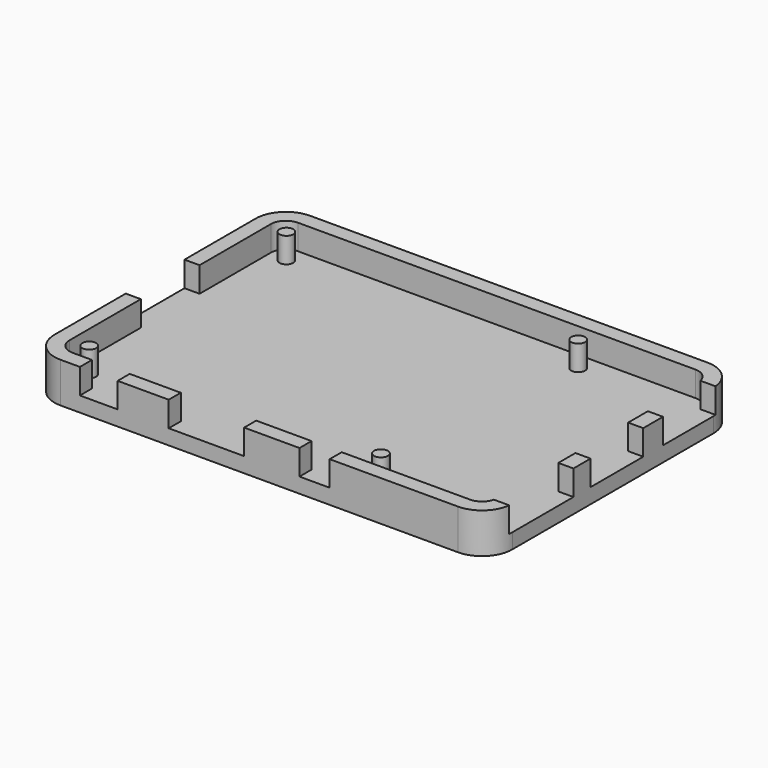
from build123d import *

# Parameters (mm, degrees)
F1_DEPTH  = 8
F0_R      = 3.1
F0_R_2    = 1.375
F2_DEPTH  = 3
F3_DEPTH  = 8
F4_W      = 7.5
F4_H      = 5
F5_DEPTH  = 3
F4_W_2    = 15
F4_W_3    = 6
F6_DEPTH  = 3
F7_W      = 15.9
F7_H      = 5
F7_W_2    = 13.1
F8_DEPTH  = 3
F9_W      = 14.6
F9_H      = 5
F10_DEPTH = 3
F11_DEPTH = 10


with BuildPart() as f1:
    # F0 (on Top) → F1 (new body)
    with BuildSketch(Plane.XY):
        with BuildLine():
            Line((82, 59), (3, 59))
            ThreePointArc((3, 59), (-1.242641, 57.242641), (-3, 53))
            Line((-3, 53), (-3, 3))
            ThreePointArc((-3, 3), (-1.242641, -1.242641), (3, -3))
            Line((3, -3), (82, -3))
            ThreePointArc((82, -3), (86.242641, -1.242641), (88, 3))
            Line((88, 3), (88, 53))
            ThreePointArc((88, 53), (86.242641, 57.242641), (82, 59))
        make_face()
        with BuildLine():
            Line((82, 0), (3, 0))
            ThreePointArc((3, 0), (0.87868, 0.87868), (0, 3))
            Line((0, 3), (0, 53))
            ThreePointArc((0, 53), (0.87868, 55.12132), (3, 56))
            Line((3, 56), (82, 56))
            ThreePointArc((82, 56), (84.12132, 55.12132), (85, 53))
            Line((85, 53), (85, 3))
            ThreePointArc((85, 3), (84.12132, 0.87868), (82, 0))
        make_face(mode=Mode.SUBTRACT)
    extrude(amount=F1_DEPTH)

    # F0 (on Top) → F2 (join)
    with BuildSketch(Plane.XY):
        with BuildLine():
            Line((82, 59), (3, 59))
            ThreePointArc((3, 59), (-1.242641, 57.242641), (-3, 53))
            Line((-3, 53), (-3, 3))
            ThreePointArc((-3, 3), (-1.242641, -1.242641), (3, -3))
            Line((3, -3), (82, -3))
            ThreePointArc((82, -3), (86.242641, -1.242641), (88, 3))
            Line((88, 3), (88, 53))
            ThreePointArc((88, 53), (86.242641, 57.242641), (82, 59))
        make_face()
        with BuildLine():
            Line((82, 0), (3, 0))
            ThreePointArc((3, 0), (0.87868, 0.87868), (0, 3))
            Line((0, 3), (0, 53))
            ThreePointArc((0, 53), (0.87868, 55.12132), (3, 56))
            Line((3, 56), (82, 56))
            ThreePointArc((82, 56), (84.12132, 55.12132), (85, 53))
            Line((85, 53), (85, 3))
            ThreePointArc((85, 3), (84.12132, 0.87868), (82, 0))
        make_face(mode=Mode.SUBTRACT)
        with BuildLine():
            ThreePointArc((0, 3), (0.87868, 0.87868), (3, 0))
            Line((3, 0), (82, 0))
            ThreePointArc((82, 0), (84.12132, 0.87868), (85, 3))
            Line((85, 3), (85, 53))
            ThreePointArc((85, 53), (84.12132, 55.12132), (82, 56))
            Line((82, 56), (3, 56))
            ThreePointArc((3, 56), (0.87868, 55.12132), (0, 53))
            Line((0, 53), (0, 3))
        make_face()
        with Locations((3.5, 3.5)):
            Circle(F0_R, mode=Mode.SUBTRACT)
        with Locations((61.5, 3.5)):
            Circle(F0_R, mode=Mode.SUBTRACT)
        with Locations((3.5, 52.5)):
            Circle(F0_R, mode=Mode.SUBTRACT)
        with Locations((61.5, 52.5)):
            Circle(F0_R, mode=Mode.SUBTRACT)
        with Locations((3.5, 3.5)):
            Circle(F0_R)
        with Locations((3.5, 3.5)):
            Circle(F0_R_2, mode=Mode.SUBTRACT)
        with Locations((3.5, 3.5)):
            Circle(F0_R_2)
        with Locations((61.5, 3.5)):
            Circle(F0_R)
        with Locations((61.5, 3.5)):
            Circle(F0_R_2, mode=Mode.SUBTRACT)
        with Locations((61.5, 3.5)):
            Circle(F0_R_2)
        with Locations((61.5, 52.5)):
            Circle(F0_R)
        with Locations((61.5, 52.5)):
            Circle(F0_R_2, mode=Mode.SUBTRACT)
        with Locations((61.5, 52.5)):
            Circle(F0_R_2)
        with Locations((3.5, 52.5)):
            Circle(F0_R)
        with Locations((3.5, 52.5)):
            Circle(F0_R_2, mode=Mode.SUBTRACT)
        with Locations((3.5, 52.5)):
            Circle(F0_R_2)
    extrude(amount=F2_DEPTH)

    # F0 (on Top) → F3 (join)
    with BuildSketch(Plane.XY):
        with Locations((3.5, 3.5)):
            Circle(F0_R_2)
        with Locations((61.5, 3.5)):
            Circle(F0_R_2)
        with Locations((3.5, 52.5)):
            Circle(F0_R_2)
        with Locations((61.5, 52.5)):
            Circle(F0_R_2)
    extrude(amount=F3_DEPTH)

    # F4 (on face) → F5 (cut, through all)
    with BuildSketch(Plane.XZ.offset(3)):
        with Locations((10.6, 5.5)):
            Rectangle(F4_W, F4_H)
    extrude(amount=-F5_DEPTH, mode=Mode.SUBTRACT)

    # F4 (on face) → F6 (cut, through all)
    with BuildSketch(Plane.XZ.offset(3)):
        with Locations((10.6, 5.5)):
            Rectangle(F4_W, F4_H)
        with Locations((32, 5.5)):
            Rectangle(F4_W_2, F4_H)
        with Locations((53.5, 5.5)):
            Rectangle(F4_W_3, F4_H)
    extrude(amount=-F6_DEPTH, mode=Mode.SUBTRACT)

    # F7 (on face) → F8 (cut, through all)
    with BuildSketch(Plane.YZ.offset(88)):
        with Locations((10.25, 5.5)):
            Rectangle(F7_W, F7_H)
        with Locations((29, 5.5)):
            Rectangle(F7_W_2, F7_H)
        with Locations((47, 5.5)):
            Rectangle(F7_W_2, F7_H)
    extrude(amount=-F8_DEPTH, mode=Mode.SUBTRACT)

    # F9 (on face) → F10 (cut, through all)
    with BuildSketch(Plane(origin=(-3, 0, 0), x_dir=(0, -1, 0), z_dir=(-1, 0, 0))):
        with Locations((-28, 5.5)):
            Rectangle(F9_W, F9_H)
    extrude(amount=-F10_DEPTH, mode=Mode.SUBTRACT)

    # F7 (on face) → F11 (cut)
    with BuildSketch(Plane.YZ.offset(88)):
        with Locations((10.25, 5.5)):
            Rectangle(F7_W, F7_H)
        with Locations((29, 5.5)):
            Rectangle(F7_W_2, F7_H)
        with Locations((47, 5.5)):
            Rectangle(F7_W_2, F7_H)
    extrude(amount=-F11_DEPTH, mode=Mode.SUBTRACT)


solid = f1.part
